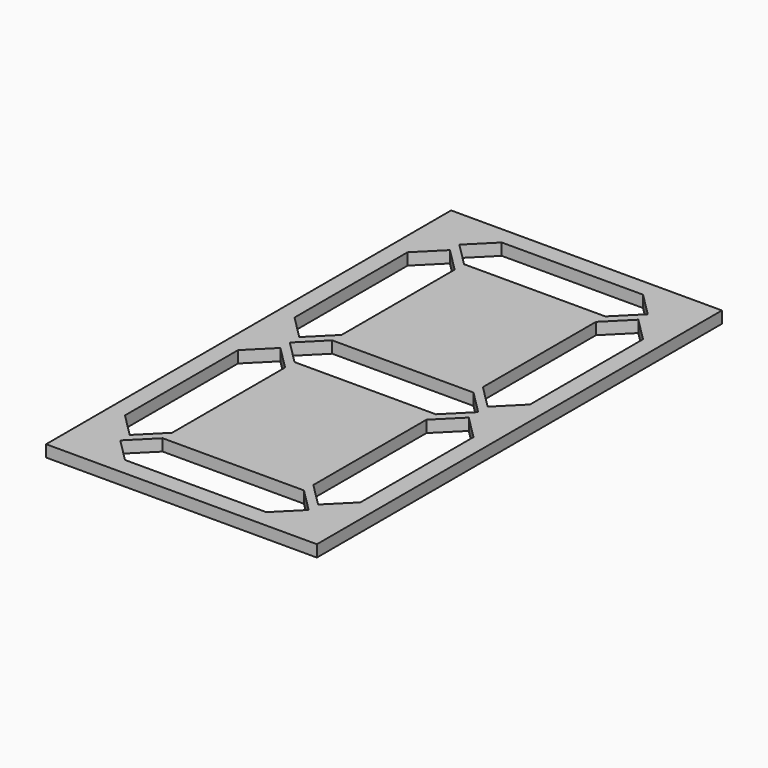
from build123d import *

# Parameters (mm, degrees)
BOX011_W         = 46
BOX011_H         = 4
BOX011_DEPTH     = 10
BOX010_W         = 1
BOX010_H         = 90
BOX010_DEPTH     = 2
BOX_W            = 1
BOX_H            = 90
BOX_DEPTH        = 2
EXTRUDE006_DEPTH = 10
EXTRUDE005_DEPTH = 10
EXTRUDE004_DEPTH = 10
EXTRUDE_DEPTH    = 10
EXTRUDE003_DEPTH = 10
EXTRUDE002_DEPTH = 10
EXTRUDE001_DEPTH = 10
BOX001_W         = 44
BOX001_H         = 90
BOX001_DEPTH     = 2


with BuildPart() as cube011:
    # Box011 → Box011 (new body)
    with BuildSketch(Plane(origin=(-1, 86, -4), x_dir=(1, 0, 0), z_dir=(0, 0, 1))):
        with Locations((23, 2)):
            Rectangle(BOX011_W, BOX011_H)
    extrude(amount=BOX011_DEPTH)


with BuildPart() as cube010:
    # Box010 → Box010 (new body)
    with BuildSketch(Plane(origin=(44, 0, 0), x_dir=(1, 0, 0), z_dir=(0, 0, 1))):
        with Locations((0.5, 45)):
            Rectangle(BOX010_W, BOX010_H)
    extrude(amount=BOX010_DEPTH)


with BuildPart() as cube:
    # Box → Box (new body)
    with BuildSketch(Plane(origin=(-1, 0, 0), x_dir=(1, 0, 0), z_dir=(0, 0, 1))):
        with Locations((0.5, 45)):
            Rectangle(BOX_W, BOX_H)
    extrude(amount=BOX_DEPTH)


with BuildPart() as extrude_g:
    # Sketch008 (on Face6 of Box006) → Extrude006 (new body)
    with BuildSketch(Plane.XY.offset(10)):
        Polygon((10, 47), (6, 43), (10, 39), (34, 39), (38, 43), (34, 47), align=None)
    extrude(amount=EXTRUDE006_DEPTH)


with BuildPart() as extrude_g_1:
    # Extrude006 placement: moved
    add(extrude_g.part.moved(Location((0, 0, -14))))


with BuildPart() as extrude_f:
    # Sketch010 (on Face6 of Box008) → Extrude005 (new body)
    with BuildSketch(Plane.XY.offset(10)):
        Polygon((6, 77), (10, 73), (10, 49), (6, 45), (2, 49), (2, 73), align=None)
    extrude(amount=EXTRUDE005_DEPTH)


with BuildPart() as extrude_f_1:
    # Extrude005 placement: moved
    add(extrude_f.part.moved(Location((0, 0, -14))))


with BuildPart() as extrude_e:
    # Sketch011 (on Face6 of Box009) → Extrude004 (new body)
    with BuildSketch(Plane.XY.offset(10)):
        Polygon((6, 41), (10, 37), (10, 13), (6, 9), (2, 13), (2, 37), align=None)
    extrude(amount=EXTRUDE004_DEPTH)


with BuildPart() as extrude_e_1:
    # Extrude004 placement: moved
    add(extrude_e.part.moved(Location((0, 0, -14))))


with BuildPart() as extrude_d:
    # Sketch003 (on Face6 of Box001) → Extrude (new body)
    with BuildSketch(Plane.XY.offset(2)):
        Polygon((10, 11), (6, 7), (10, 3), (34, 3), (38, 7), (34, 11), align=None)
    extrude(amount=EXTRUDE_DEPTH)


with BuildPart() as extrude_d_1:
    # Extrude placement: moved
    add(extrude_d.part.moved(Location((0, 0, -6))))


with BuildPart() as extrude_c:
    # Sketch006 (on Face6 of Box004) → Extrude003 (new body)
    with BuildSketch(Plane.XY.offset(10)):
        Polygon((38, 41), (42, 37), (42, 13), (38, 9), (34, 13), (34, 37), align=None)
    extrude(amount=EXTRUDE003_DEPTH)


with BuildPart() as extrude_c_1:
    # Extrude003 placement: moved
    add(extrude_c.part.moved(Location((0, 0, -14))))


with BuildPart() as extrude_b:
    # Sketch007 (on Face6 of Box005) → Extrude002 (new body)
    with BuildSketch(Plane.XY.offset(10)):
        Polygon((38, 77), (42, 73), (42, 49), (38, 45), (34, 49), (34, 73), align=None)
    extrude(amount=EXTRUDE002_DEPTH)


with BuildPart() as extrude_b_1:
    # Extrude002 placement: moved
    add(extrude_b.part.moved(Location((0, 0, -14))))


with BuildPart() as extrude_a:
    # Sketch009 (on Face6 of Box007) → Extrude001 (new body)
    with BuildSketch(Plane.XY.offset(10)):
        Polygon((10, 83), (6, 79), (10, 75), (34, 75), (38, 79), (34, 83), align=None)
    extrude(amount=EXTRUDE001_DEPTH)


with BuildPart() as extrude_a_1:
    # Extrude001 placement: moved
    add(extrude_a.part.moved(Location((0, 0, -14))))


with BuildPart() as cut007:
    # Box001 → Box001 (new body)
    with BuildSketch(Plane.XY):
        with Locations((22, 45)):
            Rectangle(BOX001_W, BOX001_H)
    extrude(amount=BOX001_DEPTH)

    # Cut: cut Extrude_A
    add(extrude_a_1.part, mode=Mode.SUBTRACT)

    # Cut001: cut Extrude_B
    add(extrude_b_1.part, mode=Mode.SUBTRACT)

    # Cut002: cut Extrude_C
    add(extrude_c_1.part, mode=Mode.SUBTRACT)

    # Cut003: cut Extrude_D
    add(extrude_d_1.part, mode=Mode.SUBTRACT)

    # Cut004: cut Extrude_E
    add(extrude_e_1.part, mode=Mode.SUBTRACT)

    # Cut005: cut Extrude_F
    add(extrude_f_1.part, mode=Mode.SUBTRACT)

    # Cut006: cut Extrude_G
    add(extrude_g_1.part, mode=Mode.SUBTRACT)

    # Fusion: union Cube
    add(cube.part)

    # Fusion001: union Cube010
    add(cube010.part)

    # Cut007: cut Cube011
    add(cube011.part, mode=Mode.SUBTRACT)


solid = cut007.part
